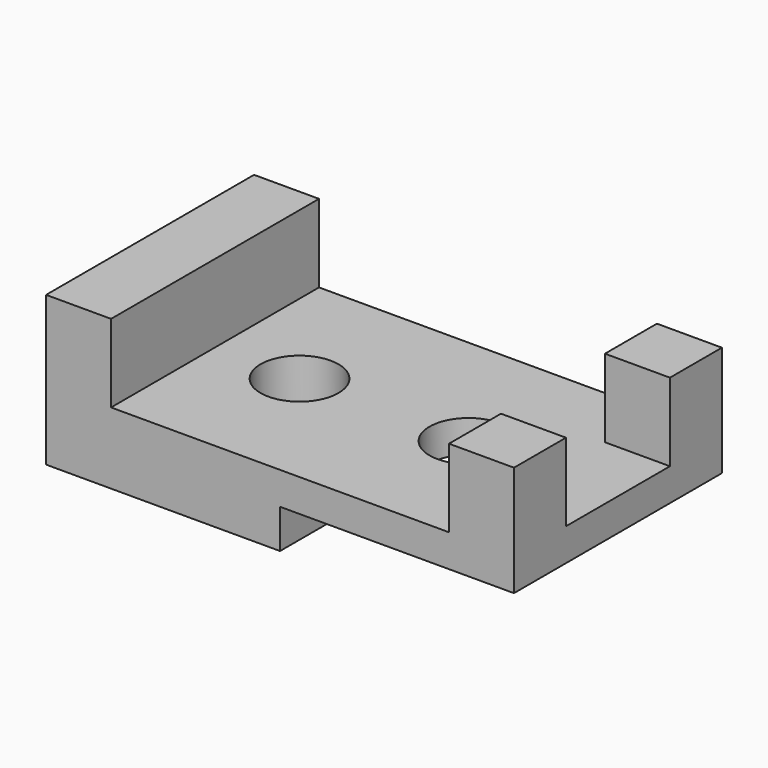
from build123d import *

# Parameters (mm, degrees)
F0_W     = 114.3
F0_H     = 63.5
F1_DEPTH = 36.5125
F2_W     = 57.15
F2_H     = 9.525
F3_DEPTH = 63.501
F4_W     = 98.425
F4_H     = 63.5
F5_DEPTH = 19.05
F6_W     = 15.875
F6_H     = 15.875
F7_DEPTH = 19.05
F8_R     = 9.525
F9_DEPTH = 17.4635


with BuildPart() as f1:
    # F0 (on Top) → F1 (new body)
    with BuildSketch(Plane.XY):
        with Locations((-2.143128, -16.985219)):
            Rectangle(F0_W, F0_H)
    extrude(amount=F1_DEPTH)

    # F2 (on face) → F3 (cut, through all)
    with BuildSketch(Plane.XZ.offset(48.735219)):
        with Locations((26.431872, 4.7625)):
            Rectangle(F2_W, F2_H)
    extrude(amount=-F3_DEPTH, mode=Mode.SUBTRACT)

    # F4 (on face) → F5 (cut)
    with BuildSketch(Plane.XY.offset(36.5125)):
        with Locations((5.794372, -16.985219)):
            Rectangle(F4_W, F4_H)
    extrude(amount=-F5_DEPTH, mode=Mode.SUBTRACT)

    # F6 (on face) → F7 (join)
    with BuildSketch(Plane.XY.offset(17.4625)):
        with Locations((47.069372, 6.827281)):
            Rectangle(F6_W, F6_H)
        with Locations((47.069372, -40.797719)):
            Rectangle(F6_W, F6_H)
    extrude(amount=F7_DEPTH)

    # F8 (on face) → F9 (cut, through all)
    with BuildSketch(Plane.XY.offset(17.4625)):
        with Locations((-22.780628, -16.985219)):
            Circle(F8_R)
        with Locations((18.494372, -16.985219)):
            Circle(F8_R)
    extrude(amount=-F9_DEPTH, mode=Mode.SUBTRACT)


solid = f1.part
